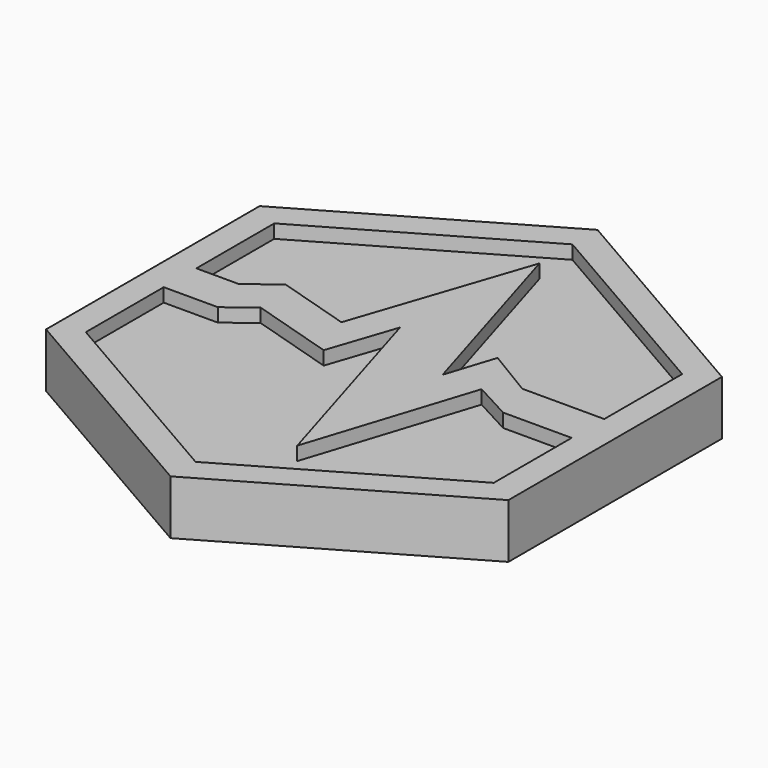
from build123d import *

# Parameters (mm, degrees)
F1_DEPTH = 2
F2_DEPTH = 1.5


with BuildPart() as f1:
    # F0 (on Top) → F1 (new body)
    with BuildSketch(Plane.XY):
        Polygon((0, -9.814955), (8.5, -4.907477), (8.5, 4.907477), (0, 9.814955), (-8.5, 4.907477), (-8.5, -4.907477), align=None)
        Polygon((7.5, -0.75), (7.5, -4.330127), (0, -8.660254), (-7.5, -4.330127), (-7.5, -0.75), (-5.507114, -0.75), (-4.539824, 0), (-1.466913, -0.940631), (-0.636186, 1.53341), (1.649807, -6.051397), (3.588727, 0), (4.980773, -0.75), align=None, mode=Mode.SUBTRACT)
        Polygon((-7.5, 0.75), (-7.5, 4.330127), (0, 8.660254), (7.5, 4.330127), (7.5, 0.75), (4.483614, 0.75), (2.733096, 1.806131), (2.154396, 0), (0, 7.148177), (-2.15346, 0.734825), (-4.876439, 1.56834), (-5.931869, 0.75), align=None, mode=Mode.SUBTRACT)
    extrude(amount=F1_DEPTH)


with BuildPart() as f2:
    # F0 (on Top) → F2 (new body)
    with BuildSketch(Plane.XY):
        Polygon((0, 8.660254), (-7.5, 4.330127), (-7.5, 0.75), (-5.931869, 0.75), (-4.876439, 1.56834), (-2.15346, 0.734825), (0, 7.148177), (2.154396, 0), (2.733096, 1.806131), (4.483614, 0.75), (7.5, 0.75), (7.5, 4.330127), align=None)
        Polygon((0, -8.660254), (7.5, -4.330127), (7.5, -0.75), (4.980773, -0.75), (3.588727, 0), (1.649807, -6.051397), (-0.636186, 1.53341), (-1.466913, -0.940631), (-4.539824, 0), (-5.507114, -0.75), (-7.5, -0.75), (-7.5, -4.330127), align=None)
    extrude(amount=F2_DEPTH)


solid = Compound([f1.part, f2.part])
